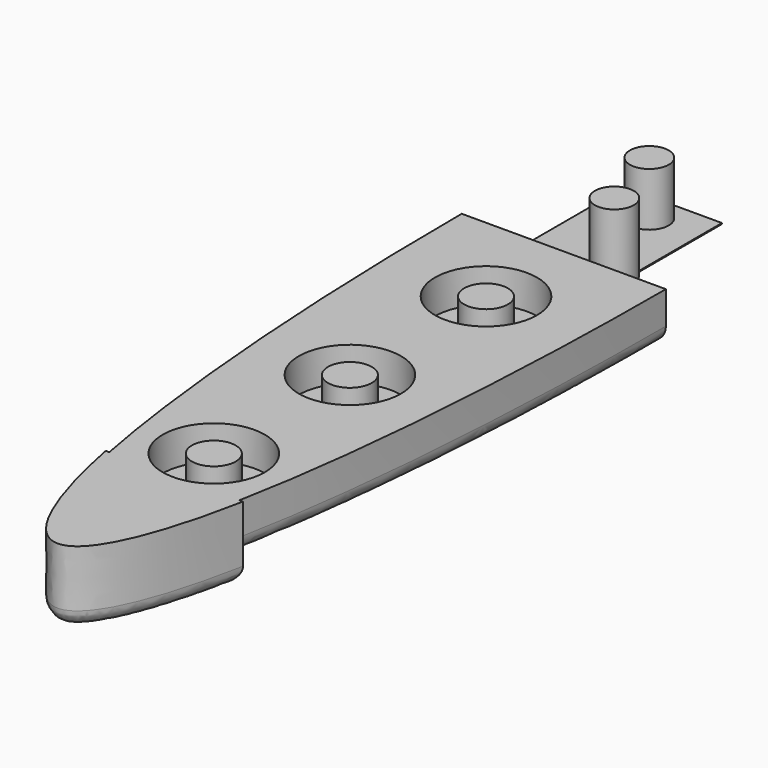
from build123d import *

# Parameters (mm, degrees)
PAD001_DEPTH           = 10
PAD002_DEPTH           = 15
FILLET_R               = 3.3
SKETCH007_R            = 10.5
SKETCH007_R_2          = 4.5
POCKET001_DEPTH        = 7
LINEARPATTERN001_COUNT = 3
LINEARPATTERN001_PITCH = 35
SKETCH008_W            = 20
SKETCH008_H            = 0.204143
PAD004_DEPTH           = 38
SKETCH009_R            = 4
PAD005_DEPTH           = 14
SKETCH010_R            = 4
PAD006_DEPTH           = 11


with BuildPart() as part:
    # Sketch001 → Pad001 (new body)
    with BuildSketch(Plane.XY):
        with BuildLine():
            add(Edge.make_bspline(
                [(-21, 0), (-21, -130), (0, -130), (21, -130), (21, 0)],
                knots=[4.712389, 4.712389, 4.712389, 6.283185, 6.283185, 7.853982, 7.853982, 7.853982], degree=2, weights=[1, 0.707107, 1, 0.707107, 1]))
            Line((21, 0), (-21, 0))
        make_face()
    extrude(amount=-PAD001_DEPTH)

    # Sketch004 (on Face4 of Pad001) → Pad002 (join)
    with BuildSketch(Plane(origin=(0, 0, 0), x_dir=(1, 0, 0), z_dir=(0, 0, -1))):
        with BuildLine():
            add(Edge.make_bspline(
                [(14.127174, 100.12989), (0, 172.550511), (-14.127174, 100.12989)],
                knots=[2.356331, 2.356331, 2.356331, 3.926854, 3.926854, 3.926854], degree=2, weights=[1, 0.707203, 1]))
            Line((-14.127174, 100.12989), (14.127174, 100.12989))
        make_face()
    extrude(amount=PAD002_DEPTH)

    # Fillet
    fillet_edges = [part.edges().sort_by_distance(p)[0] for p in [
        (-0.005047, -130.129887, -15),
        (0, -100.12989, -15),
        (19.368374, -50.240623, -10),
        (-19.368374, -50.240623, -10),
    ]]
    fillet(fillet_edges, radius=FILLET_R)

    # Sketch007 → Pocket001 (cut)
    with BuildSketch(Plane.XY):
        with Locations((0, -90)):
            Circle(SKETCH007_R)
        with Locations((0, -90)):
            Circle(SKETCH007_R_2, mode=Mode.SUBTRACT)
    pocket001 = extrude(amount=-POCKET001_DEPTH, mode=Mode.SUBTRACT)

    # LinearPattern001: Pocket001 ×3
    with Locations(*[(0, i * LINEARPATTERN001_PITCH, 0) for i in range(1, LINEARPATTERN001_COUNT)]):
        add(pocket001, mode=Mode.SUBTRACT)

    # Sketch008 (on Face5 of LinearPattern001) → Pad004 (join)
    with BuildSketch(Plane(origin=(0, 0, 0), x_dir=(-1, 0, 0), z_dir=(0, 1, 0))):
        with Locations((7.869961, -9.70371)):
            Rectangle(SKETCH008_W, SKETCH008_H)
    extrude(amount=PAD004_DEPTH)

    # Sketch009 (on Face16 of Pad004) → Pad005 (join)
    with BuildSketch(Plane.XY.offset(-9.601639)):
        with Locations((0, 13)):
            Circle(SKETCH009_R)
    extrude(amount=PAD005_DEPTH)

    # Sketch010 (on Face16 of Pad005) → Pad006 (join)
    with BuildSketch(Plane.XY.offset(-9.601639)):
        with Locations((-8, 32)):
            Circle(SKETCH010_R)
    extrude(amount=PAD006_DEPTH)


solid = part.part
